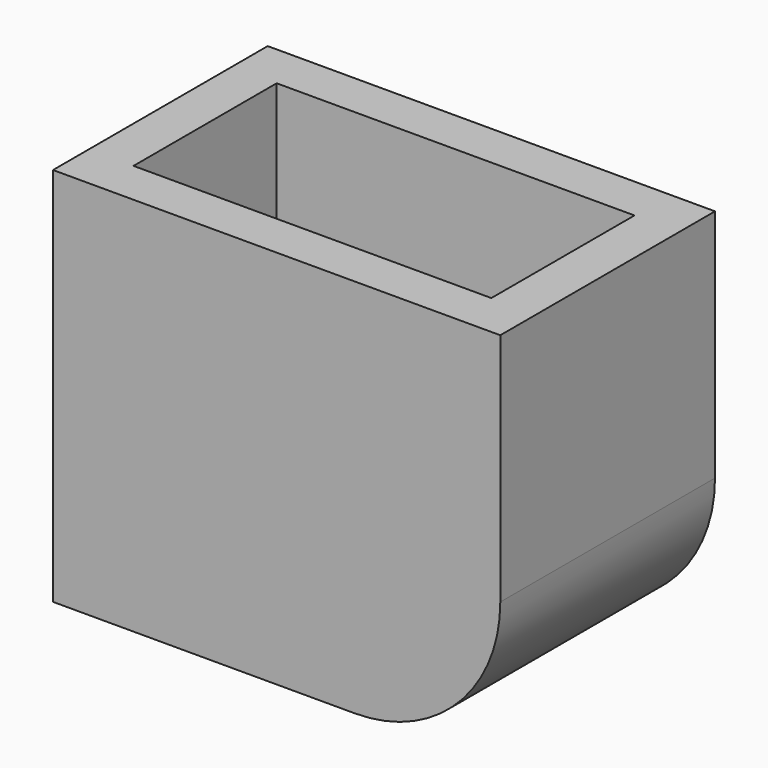
from build123d import *

# Parameters (mm, degrees)
F0_W     = 50.8
F0_H     = 43.18
F1_DEPTH = 30.48
F2_R     = 16.51
F3_W     = 40.64
F3_H     = 20.32
F4_DEPTH = 38.1
F6_DEPTH = 2.54
F7_R     = 33.02
F8_R     = 9.525
F9_DEPTH = 25.4


with BuildPart() as f1:
    # F0 (on Front) → F1 (new body)
    with BuildSketch(Plane.XZ):
        with Locations((25.4, -21.59)):
            Rectangle(F0_W, F0_H)
    extrude(amount=F1_DEPTH)

    # F2
    f2_edges = [f1.edges().sort_by_distance(p)[0] for p in [
        (50.8, -15.24, -43.18),
    ]]
    fillet(f2_edges, radius=F2_R)

    # F3 (on face) → F4 (cut)
    with BuildSketch(Plane.XY):
        with Locations((25.4, -15.24)):
            Rectangle(F3_W, F3_H)
    extrude(amount=-F4_DEPTH, mode=Mode.SUBTRACT)

    # F5 (on face) → F6 (join)
    with BuildSketch(Plane(origin=(0, 0, 0), x_dir=(0, -1, 0), z_dir=(-1, 0, 0))):
        with BuildLine():
            ThreePointArc((15.24, -43.18), (21.975192, -40.390192), (24.765, -33.655))
            ThreePointArc((24.765, -33.655), (8.504808, -26.919808), (15.24, -43.18))
        make_face()
    extrude(amount=-F6_DEPTH)

    # F7
    f7_edges = [f1.edges().sort_by_distance(p)[0] for p in [
        (45.72, -15.24, -38.1),
    ]]
    fillet(f7_edges, radius=F7_R)

    # F8 (on face) → F9 (cut)
    with BuildSketch(Plane.YZ.offset(5.08)):
        with Locations((-15.24, -28.575)):
            Circle(F8_R)
    extrude(amount=-F9_DEPTH, mode=Mode.SUBTRACT)


solid = f1.part
